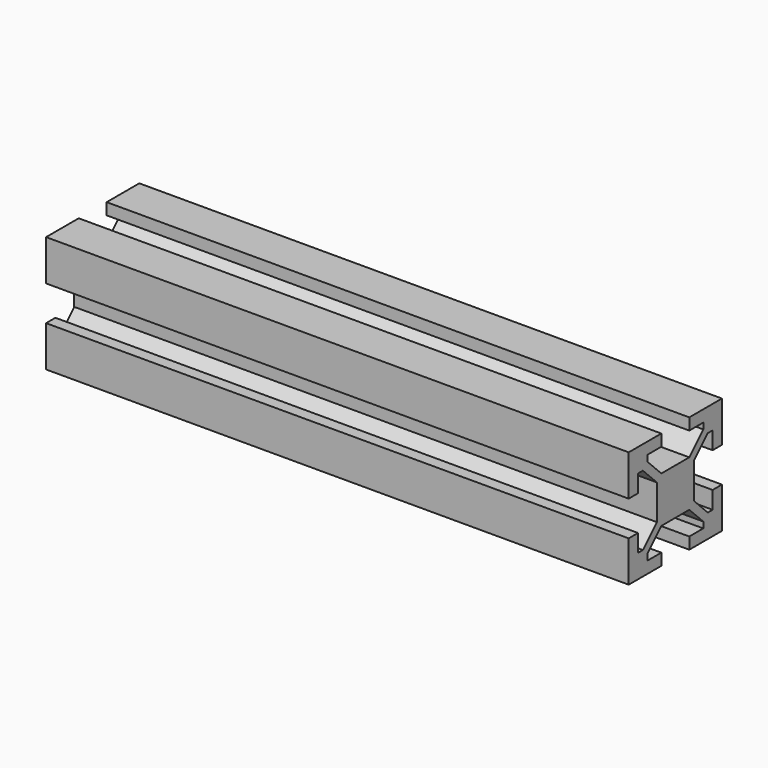
from build123d import *

# Parameters (mm, degrees)
F1_DEPTH = 100


with BuildPart() as f1:
    # F0 (on Right) → F1 (new body)
    with BuildSketch(Plane.YZ):
        Polygon((2.998335, 3.96), (0, 3.96), (-2.998335, 3.96), (-6, 6.961665), (-6, 8), (-3, 8), (-3, 10), (-10, 10), (-10, 3), (-8, 3), (-8, 6), (-6.961665, 6), (-3.96, 2.998335), (-3.96, 0), (-3.96, -2.998335), (-6.961665, -6), (-8, -6), (-8, -3), (-10, -3), (-10, -10), (-3, -10), (-3, -8), (-6, -8), (-6, -6.961665), (-2.998335, -3.96), (0, -3.96), (2.998335, -3.96), (6, -6.961665), (6, -8), (3, -8), (3, -10), (10, -10), (10, -3), (8, -3), (8, -6), (6.961665, -6), (3.96, -2.998335), (3.96, 0), (3.96, 2.998335), (6.961665, 6), (8, 6), (8, 3), (10, 3), (10, 10), (3, 10), (3, 8), (6, 8), (6, 6.961665), align=None)
    extrude(amount=F1_DEPTH)


solid = f1.part
